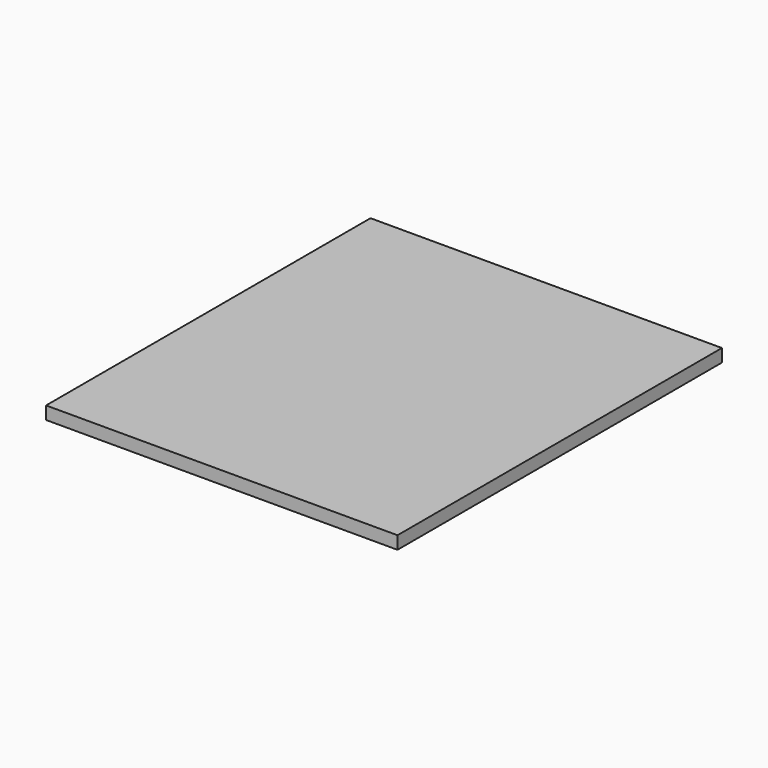
from build123d import *

# Parameters (mm, degrees)
SKETCH_W  = 520
SKETCH_H  = 600
PAD_DEPTH = 19


with BuildPart() as part:
    # Sketch → Pad (new body)
    with BuildSketch(Plane.XY):
        Rectangle(SKETCH_W, SKETCH_H)
    extrude(amount=PAD_DEPTH)


solid = part.part
